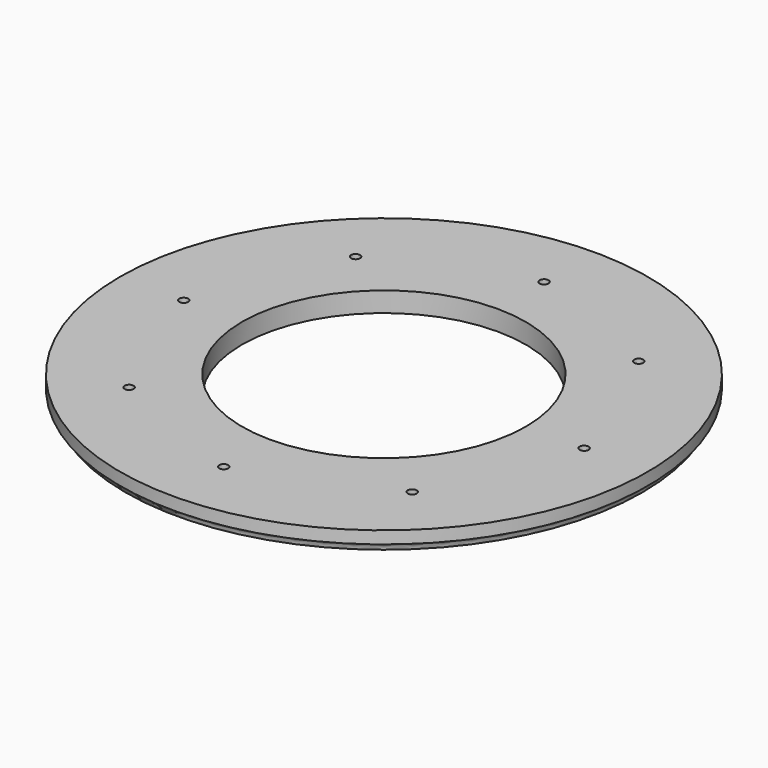
from build123d import *

# Parameters (mm, degrees)
SKETCH003_R   = 1.35
EXTRUDE_DEPTH = 30


with BuildPart() as hole_cut:
    # Sketch003 → Extrude (new body, symmetric)
    with BuildSketch(Plane.XY):
        with Locations((42.497118, 42.497118)):
            Circle(SKETCH003_R)
        with Locations((0, 60.1)):
            Circle(SKETCH003_R)
        with Locations((-42.497118, 42.497118)):
            Circle(SKETCH003_R)
        with Locations((-60.1, 0)):
            Circle(SKETCH003_R)
        with Locations((-42.497118, -42.497118)):
            Circle(SKETCH003_R)
        with Locations((0, -60.1)):
            Circle(SKETCH003_R)
        with Locations((42.497118, -42.497118)):
            Circle(SKETCH003_R)
        with Locations((60.1, 0)):
            Circle(SKETCH003_R)
    extrude(amount=EXTRUDE_DEPTH, both=True)


with BuildPart() as bearing_inner_race_upper:
    # Sketch → Revolve (revolve)
    with BuildSketch(Plane.XZ):
        with BuildLine():
            ThreePointArc((-77.6, 0), (-78.055778, 1.407125), (-79.25, 2.279803))
            Line((-79.25, 2.279803), (-79.25, 6))
            Line((-79.25, 6), (-42.6, 6))
            Line((-42.6, 6), (-42.6, 0))
            Line((-77.6, 0), (-42.6, 0))
        make_face()
    revolve(axis=Axis((0, 0, 0), (0, 0, 1)))

    # Cut: cut hole cut
    add(hole_cut.part, mode=Mode.SUBTRACT)


solid = bearing_inner_race_upper.part
